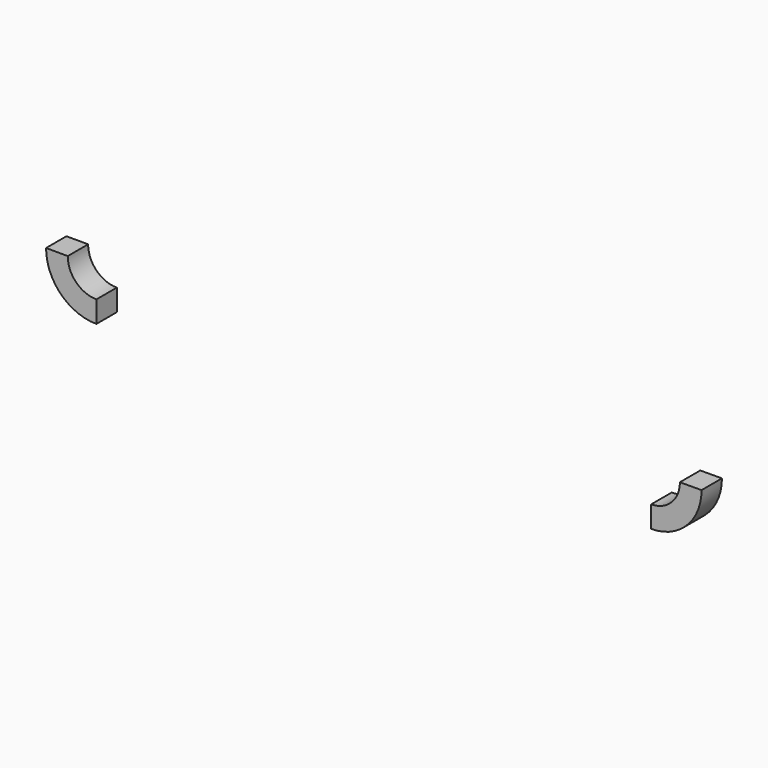
from build123d import *

# Parameters (mm, degrees)
F1_DEPTH = 5.08
F2_DEPTH = 5.08


with BuildPart() as f1:
    # F0 (on Front) → F1 (new body)
    with BuildSketch(Plane.XZ):
        with BuildLine():
            ThreePointArc((31.669777, 23.273606), (30.003937, 19.21752), (25.95455, 17.535461))
            Line((25.95455, 17.535461), (25.95455, 13.217462))
            ThreePointArc((25.95455, 13.217462), (33.063327, 16.170349), (35.987742, 23.290886))
            Line((35.987742, 23.290886), (31.669777, 23.273606))
        make_face()
    extrude(amount=F1_DEPTH)


with BuildPart() as f2:
    # F0 (on Front) → F2 (new body)
    with BuildSketch(Plane.XZ):
        with BuildLine():
            Line((-84.662786, 13.217462), (-84.662786, 17.535461))
            ThreePointArc((-84.662786, 17.535461), (-88.712172, 19.21752), (-90.378013, 23.273606))
            Line((-90.378013, 23.273606), (-94.695977, 23.290886))
            ThreePointArc((-94.695977, 23.290886), (-91.771562, 16.170349), (-84.662786, 13.217462))
        make_face()
    extrude(amount=F2_DEPTH)


solid = Compound([f1.part, f2.part])
